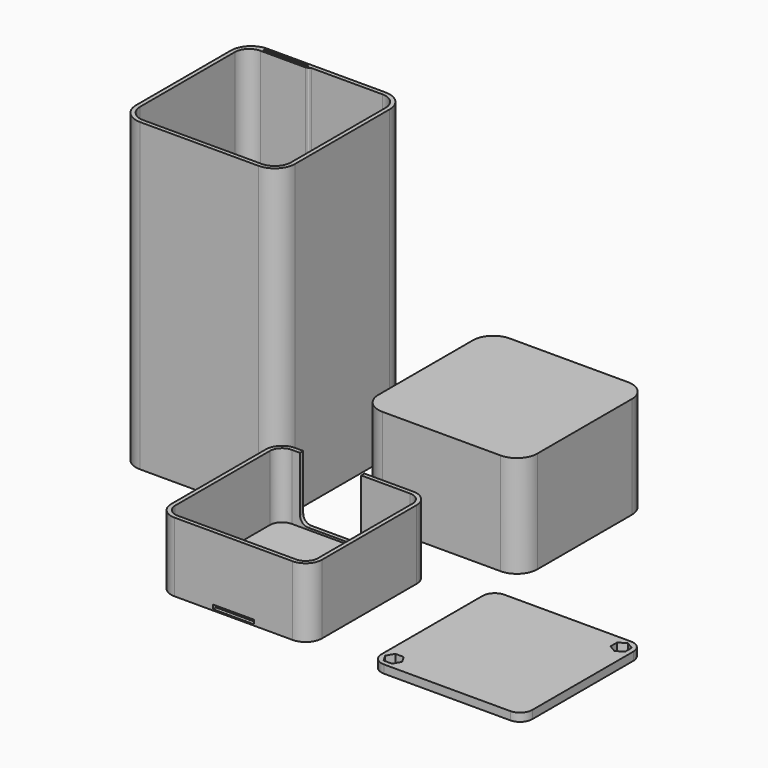
from build123d import *

# Parameters (mm, degrees)
F1_DEPTH  = 17
F2_T      = -1
F4_DEPTH  = 2
F5_W      = 10
F5_H      = 1
F6_DEPTH  = 0.9
F8_DEPTH  = 75
F9_DEPTH  = 15
F10_DEPTH = 1
F12_DEPTH = 25
F13_T     = -1
F14_R     = 1.5
F14_R_2   = 0.75
F15_DEPTH = 25
F17_DEPTH = 2


with BuildPart() as f1:
    # F0 (on Top) → F1 (new body)
    with BuildSketch(Plane.XY):
        with BuildLine():
            Line((33, 0), (4, 0))
            ThreePointArc((4, 0), (1.171573, -1.171573), (0, -4))
            Line((0, -4), (0, -33))
            ThreePointArc((0, -33), (1.171573, -35.828427), (4, -37))
            Line((4, -37), (33, -37))
            ThreePointArc((33, -37), (35.828427, -35.828427), (37, -33))
            Line((37, -33), (37, -4))
            ThreePointArc((37, -4), (35.828427, -1.171573), (33, 0))
        make_face()
    extrude(amount=F1_DEPTH)

    # F2
    f2_openings = [f1.faces().sort_by_distance(p)[0] for p in [
        (18.5, -18.5, 17),
    ]]
    offset(amount=F2_T, openings=f2_openings)

    # F3 (on face) → F4 (cut)
    with BuildSketch(Plane(origin=(0, 0, 0), x_dir=(-1, 0, 0), z_dir=(0, 1, 0))):
        with BuildLine():
            Line((-19, 1.5), (-8, 1.5))
            ThreePointArc((-8, 1.5), (-6.585786, 2.085786), (-6, 3.5))
            Line((-6, 3.5), (-6, 17))
            Line((-6, 17), (-21, 17))
            Line((-21, 17), (-21, 3.5))
            ThreePointArc((-21, 3.5), (-20.414214, 2.085786), (-19, 1.5))
        make_face()
    extrude(amount=-F4_DEPTH, mode=Mode.SUBTRACT)

    # F5 (on face) → F6 (cut)
    with BuildSketch(Plane.XZ.offset(37)):
        with Locations((18.5, 0.8)):
            Rectangle(F5_W, F5_H)
    extrude(amount=-F6_DEPTH, mode=Mode.SUBTRACT)


with BuildPart() as f8:
    # F7 (on Top) → F8 (new body)
    with BuildSketch(Plane.XY):
        with BuildLine():
            Line((-34, 0), (-5, 0))
            ThreePointArc((-5, 0), (-1.464466, 1.464466), (0, 5))
            Line((0, 5), (0, 34))
            ThreePointArc((0, 34), (-1.464466, 37.535534), (-5, 39))
            Line((-5, 39), (-34, 39))
            ThreePointArc((-34, 39), (-37.535534, 37.535534), (-39, 34))
            Line((-39, 34), (-39, 5))
            ThreePointArc((-39, 5), (-37.535534, 1.464466), (-34, 0))
        make_face()
        with BuildLine():
            ThreePointArc((-38, 34), (-36.828427, 36.828427), (-34, 38))
            ThreePointArc((-34, 38), (-34.25, 38.25), (-34, 38.5))
            Line((-34, 38.5), (-24.041062, 38.5))
            Line((-24.041062, 38.5), (-23.900286, 38.5))
            ThreePointArc((-23.900286, 38.5), (-23.719268, 38.466082), (-23.56281, 38.368931))
            Line((-23.56281, 38.368931), (-23.302778, 38.131069))
            ThreePointArc((-23.302778, 38.131069), (-23.14632, 38.033918), (-22.965302, 38))
            Line((-22.965302, 38), (-22.374419, 38))
            Line((-22.374419, 38), (-5, 38))
            ThreePointArc((-5, 38), (-2.171573, 36.828427), (-1, 34))
            Line((-1, 34), (-1, 5))
            ThreePointArc((-1, 5), (-2.171573, 2.171573), (-5, 1))
            Line((-5, 1), (-34, 1))
            ThreePointArc((-34, 1), (-36.828427, 2.171573), (-38, 5))
            Line((-38, 5), (-38, 34))
        make_face(mode=Mode.SUBTRACT)
        with BuildLine():
            Line((-24.041062, 38), (-34, 38))
            ThreePointArc((-34, 38), (-36.828427, 36.828427), (-38, 34))
            ThreePointArc((-38, 34), (-36.974874, 36.474874), (-34.5, 37.5))
            Line((-34.5, 37.5), (-23.409269, 37.5))
            ThreePointArc((-23.409269, 37.5), (-23.260246, 37.522724), (-23.124768, 37.588832))
            Line((-23.124768, 37.588832), (-22.658921, 37.911168))
            ThreePointArc((-22.658921, 37.911168), (-22.523443, 37.977276), (-22.374419, 38))
            Line((-22.374419, 38), (-22.965302, 38))
            Line((-22.965302, 38), (-24.041062, 38))
        make_face()
    extrude(amount=F8_DEPTH)

    # F7 (on Top) → F9 (cut)
    with BuildSketch(Plane.XY):
        with BuildLine():
            Line((-24.041062, 38), (-34, 38))
            ThreePointArc((-34, 38), (-36.828427, 36.828427), (-38, 34))
            ThreePointArc((-38, 34), (-36.974874, 36.474874), (-34.5, 37.5))
            Line((-34.5, 37.5), (-23.409269, 37.5))
            ThreePointArc((-23.409269, 37.5), (-23.260246, 37.522724), (-23.124768, 37.588832))
            Line((-23.124768, 37.588832), (-22.658921, 37.911168))
            ThreePointArc((-22.658921, 37.911168), (-22.523443, 37.977276), (-22.374419, 38))
            Line((-22.374419, 38), (-22.965302, 38))
            Line((-22.965302, 38), (-24.041062, 38))
        make_face()
    extrude(amount=F9_DEPTH, mode=Mode.SUBTRACT)

    # F7 (on Top) → F10 (join)
    with BuildSketch(Plane.XY):
        with BuildLine():
            ThreePointArc((-34, 38.5), (-34.25, 38.25), (-34, 38))
            Line((-34, 38), (-24.041062, 38))
            ThreePointArc((-24.041062, 38), (-23.791062, 38.25), (-24.041062, 38.5))
            Line((-24.041062, 38.5), (-34, 38.5))
        make_face()
        with BuildLine():
            ThreePointArc((-24.041062, 38.5), (-23.791062, 38.25), (-24.041062, 38))
            Line((-24.041062, 38), (-22.965302, 38))
            ThreePointArc((-22.965302, 38), (-23.14632, 38.033918), (-23.302778, 38.131069))
            Line((-23.302778, 38.131069), (-23.56281, 38.368931))
            ThreePointArc((-23.56281, 38.368931), (-23.719268, 38.466082), (-23.900286, 38.5))
            Line((-23.900286, 38.5), (-24.041062, 38.5))
        make_face()
    extrude(amount=F10_DEPTH)


with BuildPart() as f12:
    # F11 (on Top) → F12 (new body)
    with BuildSketch(Plane.XY):
        with BuildLine():
            ThreePointArc((46.300238, 10.147563), (49.835772, 11.612029), (51.300238, 15.147563))
            Line((51.300238, 15.147563), (51.300238, 44.147563))
            ThreePointArc((51.300238, 44.147563), (49.835772, 47.683097), (46.300238, 49.147563))
            Line((46.300238, 49.147563), (36.664321, 49.147563))
            Line((36.664321, 49.147563), (36.534507, 49.147563))
            Line((36.534507, 49.147563), (17.300238, 49.147563))
            ThreePointArc((17.300238, 49.147563), (13.764704, 47.683097), (12.300238, 44.147563))
            Line((12.300238, 44.147563), (12.300238, 15.147563))
            ThreePointArc((12.300238, 15.147563), (13.764704, 11.612029), (17.300238, 10.147563))
            Line((17.300238, 10.147563), (46.300238, 10.147563))
        make_face()
    extrude(amount=F12_DEPTH)

    # F13
    f13_openings = [f12.faces().sort_by_distance(p)[0] for p in [
        (31.800238, 29.647563, 0),
    ]]
    offset(amount=F13_T, openings=f13_openings)

    # F14 (on face) → F15 (join)
    with BuildSketch(Plane(origin=(0, 0, 24), x_dir=(1, 0, 0), z_dir=(0, 0, -1))):
        with Locations((16.518947, -14.366271)):
            Circle(F14_R)
        with Locations((16.518947, -14.366271)):
            Circle(F14_R_2, mode=Mode.SUBTRACT)
        with Locations((47.08153, -44.928854)):
            Circle(F14_R)
        with Locations((47.08153, -44.928854)):
            Circle(F14_R_2, mode=Mode.SUBTRACT)
    extrude(amount=F15_DEPTH)


with BuildPart() as f17:
    # F16 (on Top) → F17 (new body)
    with BuildSketch(Plane.XY):
        with BuildLine():
            Line((86.379068, 0), (55.379068, 0))
            ThreePointArc((55.379068, 0), (53.257747, -0.87868), (52.379068, -3))
            Line((52.379068, -3), (52.379068, -34))
            ThreePointArc((52.379068, -34), (53.257747, -36.12132), (55.379068, -37))
            Line((55.379068, -37), (86.379068, -37))
            ThreePointArc((86.379068, -37), (88.500388, -36.12132), (89.379068, -34))
            Line((89.379068, -34), (89.379068, -3))
            ThreePointArc((89.379068, -3), (88.500388, -0.87868), (86.379068, 0))
        make_face()
        Polygon((56.411419, -32.211915), (56.688037, -32.691031), (57.443771, -34), (56.411419, -35.788085), (54.346716, -35.788085), (53.314365, -34), (54.346716, -32.211915), align=None, mode=Mode.SUBTRACT)
        Polygon((86.379068, -5.064703), (85.070098, -4.308969), (84.590982, -4.032352), (84.590982, -1.967648), (86.379068, -0.935297), (88.167153, -1.967648), (88.167153, -4.032352), align=None, mode=Mode.SUBTRACT)
    extrude(amount=F17_DEPTH)


solid = Compound([f1.part, f8.part, f12.part, f17.part])
